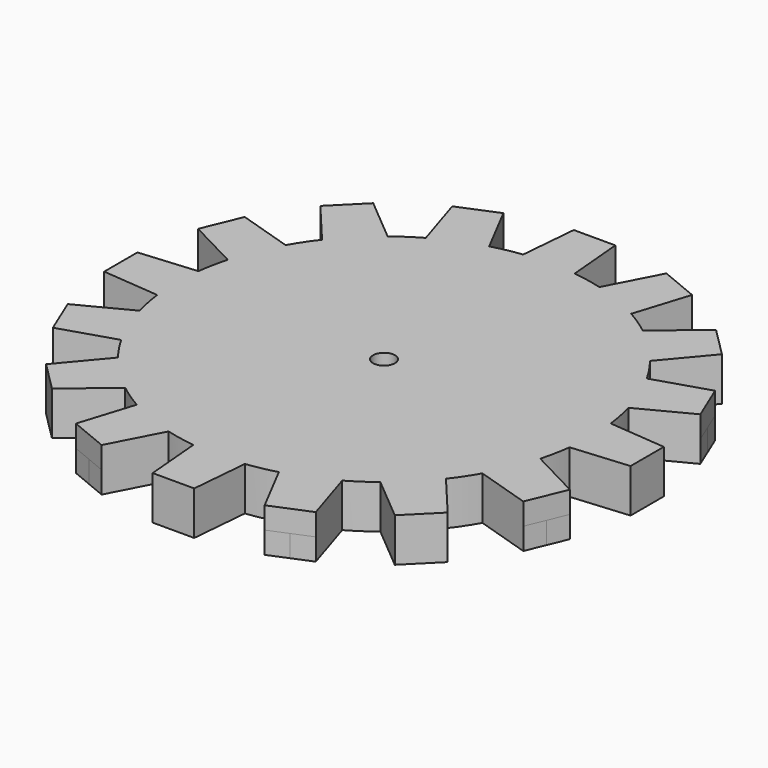
from build123d import *

# Parameters (mm, degrees)
F1_DEPTH  = 20
F2_R      = 10
F3_DEPTH  = 20.001
F1_FACE_R = 10
F4_DEPTH  = 20


with BuildPart() as f1:
    # F0 (on Top) → F1 (new body)
    with BuildSketch(Plane.XY):
        with BuildLine():
            ThreePointArc((189.029629, -23.623065), (190.132052, -11.83439), (190.5, 0))
            ThreePointArc((190.5, 0), (190.132052, 11.83439), (189.029629, 23.623065))
            ThreePointArc((189.029629, 23.623065), (186.839596, 37.164706), (183.680761, 50.513641))
            ThreePointArc((183.680761, 50.513641), (175.999051, 72.901194), (165.60045, 94.163374))
            ThreePointArc((165.60045, 94.163374), (158.394961, 105.836129), (150.368162, 116.960103))
            ThreePointArc((150.368162, 116.960103), (134.703842, 134.703842), (116.960103, 150.368162))
            ThreePointArc((116.960103, 150.368162), (105.836129, 158.394961), (94.163374, 165.60045))
            ThreePointArc((94.163374, 165.60045), (72.901194, 175.999051), (50.513641, 183.680761))
            ThreePointArc((50.513641, 183.680761), (37.164706, 186.839596), (23.623065, 189.029629))
            ThreePointArc((23.623065, 189.029629), (0, 190.5), (-23.623065, 189.029629))
            ThreePointArc((-23.623065, 189.029629), (-37.164706, 186.839596), (-50.513641, 183.680761))
            ThreePointArc((-50.513641, 183.680761), (-72.901194, 175.999051), (-94.163374, 165.60045))
            ThreePointArc((-94.163374, 165.60045), (-105.836129, 158.394961), (-116.960103, 150.368162))
            ThreePointArc((-116.960103, 150.368162), (-134.703842, 134.703842), (-150.368162, 116.960103))
            ThreePointArc((-150.368162, 116.960103), (-158.394961, 105.836129), (-165.60045, 94.163374))
            ThreePointArc((-165.60045, 94.163374), (-175.999051, 72.901194), (-183.680761, 50.513641))
            ThreePointArc((-183.680761, 50.513641), (-186.839596, 37.164706), (-189.029629, 23.623065))
            ThreePointArc((-189.029629, 23.623065), (-190.5, 0), (-189.029629, -23.623065))
            ThreePointArc((-189.029629, -23.623065), (-186.839596, -37.164706), (-183.680761, -50.513641))
            ThreePointArc((-183.680761, -50.513641), (-175.999051, -72.901194), (-165.60045, -94.163374))
            ThreePointArc((-165.60045, -94.163374), (-158.394961, -105.836129), (-150.368162, -116.960103))
            ThreePointArc((-150.368162, -116.960103), (-134.703842, -134.703842), (-116.960103, -150.368162))
            ThreePointArc((-116.960103, -150.368162), (-105.836129, -158.394961), (-94.163374, -165.60045))
            ThreePointArc((-94.163374, -165.60045), (-72.901194, -175.999051), (-50.513641, -183.680761))
            ThreePointArc((-50.513641, -183.680761), (-37.164706, -186.839596), (-23.623065, -189.029629))
            ThreePointArc((-23.623065, -189.029629), (0, -190.5), (23.623065, -189.029629))
            ThreePointArc((23.623065, -189.029629), (37.164706, -186.839596), (50.513641, -183.680761))
            ThreePointArc((50.513641, -183.680761), (72.901194, -175.999051), (94.163374, -165.60045))
            ThreePointArc((94.163374, -165.60045), (105.836129, -158.394961), (116.960103, -150.368162))
            ThreePointArc((116.960103, -150.368162), (134.703842, -134.703842), (150.368162, -116.960103))
            ThreePointArc((150.368162, -116.960103), (158.394961, -105.836129), (165.60045, -94.163374))
            ThreePointArc((165.60045, -94.163374), (175.999051, -72.901194), (183.680761, -50.513641))
            ThreePointArc((183.680761, -50.513641), (186.839596, -37.164706), (189.029629, -23.623065))
        make_face()
        with BuildLine():
            ThreePointArc((189.029629, -23.623065), (190.132052, -11.83439), (190.5, 0))
            ThreePointArc((190.5, 0), (190.132052, 11.83439), (189.029629, 23.623065))
            ThreePointArc((189.029629, 23.623065), (186.839596, 37.164706), (183.680761, 50.513641))
            ThreePointArc((183.680761, 50.513641), (175.999051, 72.901194), (165.60045, 94.163374))
            ThreePointArc((165.60045, 94.163374), (158.394961, 105.836129), (150.368162, 116.960103))
            ThreePointArc((150.368162, 116.960103), (134.703842, 134.703842), (116.960103, 150.368162))
            ThreePointArc((116.960103, 150.368162), (105.836129, 158.394961), (94.163374, 165.60045))
            ThreePointArc((94.163374, 165.60045), (72.901194, 175.999051), (50.513641, 183.680761))
            ThreePointArc((50.513641, 183.680761), (37.164706, 186.839596), (23.623065, 189.029629))
            ThreePointArc((23.623065, 189.029629), (0, 190.5), (-23.623065, 189.029629))
            ThreePointArc((-23.623065, 189.029629), (-37.164706, 186.839596), (-50.513641, 183.680761))
            ThreePointArc((-50.513641, 183.680761), (-72.901194, 175.999051), (-94.163374, 165.60045))
            ThreePointArc((-94.163374, 165.60045), (-105.836129, 158.394961), (-116.960103, 150.368162))
            ThreePointArc((-116.960103, 150.368162), (-134.703842, 134.703842), (-150.368162, 116.960103))
            ThreePointArc((-150.368162, 116.960103), (-158.394961, 105.836129), (-165.60045, 94.163374))
            ThreePointArc((-165.60045, 94.163374), (-175.999051, 72.901194), (-183.680761, 50.513641))
            ThreePointArc((-183.680761, 50.513641), (-186.839596, 37.164706), (-189.029629, 23.623065))
            ThreePointArc((-189.029629, 23.623065), (-190.5, 0), (-189.029629, -23.623065))
            ThreePointArc((-189.029629, -23.623065), (-186.839596, -37.164706), (-183.680761, -50.513641))
            ThreePointArc((-183.680761, -50.513641), (-175.999051, -72.901194), (-165.60045, -94.163374))
            ThreePointArc((-165.60045, -94.163374), (-158.394961, -105.836129), (-150.368162, -116.960103))
            ThreePointArc((-150.368162, -116.960103), (-134.703842, -134.703842), (-116.960103, -150.368162))
            ThreePointArc((-116.960103, -150.368162), (-105.836129, -158.394961), (-94.163374, -165.60045))
            ThreePointArc((-94.163374, -165.60045), (-72.901194, -175.999051), (-50.513641, -183.680761))
            ThreePointArc((-50.513641, -183.680761), (-37.164706, -186.839596), (-23.623065, -189.029629))
            ThreePointArc((-23.623065, -189.029629), (0, -190.5), (23.623065, -189.029629))
            ThreePointArc((23.623065, -189.029629), (37.164706, -186.839596), (50.513641, -183.680761))
            ThreePointArc((50.513641, -183.680761), (72.901194, -175.999051), (94.163374, -165.60045))
            ThreePointArc((94.163374, -165.60045), (105.836129, -158.394961), (116.960103, -150.368162))
            ThreePointArc((116.960103, -150.368162), (134.703842, -134.703842), (150.368162, -116.960103))
            ThreePointArc((150.368162, -116.960103), (158.394961, -105.836129), (165.60045, -94.163374))
            ThreePointArc((165.60045, -94.163374), (175.999051, -72.901194), (183.680761, -50.513641))
            ThreePointArc((183.680761, -50.513641), (186.839596, -37.164706), (189.029629, -23.623065))
        make_face()
        with BuildLine():
            ThreePointArc((189.029629, 23.623065), (190.132052, 11.83439), (190.5, 0))
            ThreePointArc((190.5, 0), (190.132052, -11.83439), (189.029629, -23.623065))
            Line((189.029629, -23.623065), (241.3, -19.05))
            Line((241.3, -19.05), (241.3, 0))
            Line((241.3, 0), (241.3, 19.05))
            Line((241.3, 19.05), (189.029629, 23.623065))
        make_face()
        with BuildLine():
            ThreePointArc((165.60045, 94.163374), (175.999051, 72.901194), (183.680761, 50.513641))
            Line((183.680761, 50.513641), (230.222251, 74.741607))
            Line((230.222251, 74.741607), (222.932131, 92.341512))
            Line((222.932131, 92.341512), (215.642012, 109.941417))
            Line((215.642012, 109.941417), (165.60045, 94.163374))
        make_face()
        with BuildLine():
            Line((230.222251, -74.741607), (183.680761, -50.513641))
            ThreePointArc((183.680761, -50.513641), (175.999051, -72.901194), (165.60045, -94.163374))
            Line((165.60045, -94.163374), (215.642012, -109.941417))
            Line((215.642012, -109.941417), (222.932131, -92.341512))
            Line((222.932131, -92.341512), (230.222251, -74.741607))
        make_face()
        with BuildLine():
            ThreePointArc((116.960103, 150.368162), (134.703842, 134.703842), (150.368162, 116.960103))
            Line((150.368162, 116.960103), (184.09525, 157.154482))
            Line((184.09525, 157.154482), (170.624866, 170.624866))
            Line((170.624866, 170.624866), (157.154482, 184.09525))
            Line((157.154482, 184.09525), (116.960103, 150.368162))
        make_face()
        with BuildLine():
            Line((184.09525, -157.154482), (150.368162, -116.960103))
            ThreePointArc((150.368162, -116.960103), (134.703842, -134.703842), (116.960103, -150.368162))
            Line((116.960103, -150.368162), (157.154482, -184.09525))
            Line((157.154482, -184.09525), (170.624866, -170.624866))
            Line((170.624866, -170.624866), (184.09525, -157.154482))
        make_face()
        with BuildLine():
            ThreePointArc((50.513641, 183.680761), (72.901194, 175.999051), (94.163374, 165.60045))
            Line((94.163374, 165.60045), (109.941417, 215.642012))
            Line((109.941417, 215.642012), (92.341512, 222.932131))
            Line((92.341512, 222.932131), (74.741607, 230.222251))
            Line((74.741607, 230.222251), (50.513641, 183.680761))
        make_face()
        with BuildLine():
            Line((109.941417, -215.642012), (94.163374, -165.60045))
            ThreePointArc((94.163374, -165.60045), (72.901194, -175.999051), (50.513641, -183.680761))
            Line((50.513641, -183.680761), (74.741607, -230.222251))
            Line((74.741607, -230.222251), (92.341512, -222.932131))
            Line((92.341512, -222.932131), (109.941417, -215.642012))
        make_face()
        with BuildLine():
            ThreePointArc((-23.623065, 189.029629), (0, 190.5), (23.623065, 189.029629))
            Line((23.623065, 189.029629), (19.05, 241.3))
            Line((19.05, 241.3), (0, 241.3))
            Line((0, 241.3), (-19.05, 241.3))
            Line((-19.05, 241.3), (-23.623065, 189.029629))
        make_face()
        with BuildLine():
            Line((19.05, -241.3), (23.623065, -189.029629))
            ThreePointArc((23.623065, -189.029629), (0, -190.5), (-23.623065, -189.029629))
            Line((-23.623065, -189.029629), (-19.05, -241.3))
            Line((-19.05, -241.3), (0, -241.3))
            Line((0, -241.3), (19.05, -241.3))
        make_face()
        with BuildLine():
            ThreePointArc((-94.163374, 165.60045), (-72.901194, 175.999051), (-50.513641, 183.680761))
            Line((-50.513641, 183.680761), (-74.741607, 230.222251))
            Line((-74.741607, 230.222251), (-92.341512, 222.932131))
            Line((-92.341512, 222.932131), (-109.941417, 215.642012))
            Line((-109.941417, 215.642012), (-94.163374, 165.60045))
        make_face()
        with BuildLine():
            Line((-74.741607, -230.222251), (-50.513641, -183.680761))
            ThreePointArc((-50.513641, -183.680761), (-72.901194, -175.999051), (-94.163374, -165.60045))
            Line((-94.163374, -165.60045), (-109.941417, -215.642012))
            Line((-109.941417, -215.642012), (-92.341512, -222.932131))
            Line((-92.341512, -222.932131), (-74.741607, -230.222251))
        make_face()
        with BuildLine():
            ThreePointArc((-150.368162, 116.960103), (-134.703842, 134.703842), (-116.960103, 150.368162))
            Line((-116.960103, 150.368162), (-157.154482, 184.09525))
            Line((-157.154482, 184.09525), (-170.624866, 170.624866))
            Line((-170.624866, 170.624866), (-184.09525, 157.154482))
            Line((-184.09525, 157.154482), (-150.368162, 116.960103))
        make_face()
        with BuildLine():
            Line((-157.154482, -184.09525), (-116.960103, -150.368162))
            ThreePointArc((-116.960103, -150.368162), (-134.703842, -134.703842), (-150.368162, -116.960103))
            Line((-150.368162, -116.960103), (-184.09525, -157.154482))
            Line((-184.09525, -157.154482), (-170.624866, -170.624866))
            Line((-170.624866, -170.624866), (-157.154482, -184.09525))
        make_face()
        with BuildLine():
            ThreePointArc((-183.680761, 50.513641), (-175.999051, 72.901194), (-165.60045, 94.163374))
            Line((-165.60045, 94.163374), (-215.642012, 109.941417))
            Line((-215.642012, 109.941417), (-222.932131, 92.341512))
            Line((-222.932131, 92.341512), (-230.222251, 74.741607))
            Line((-230.222251, 74.741607), (-183.680761, 50.513641))
        make_face()
        with BuildLine():
            Line((-215.642012, -109.941417), (-165.60045, -94.163374))
            ThreePointArc((-165.60045, -94.163374), (-175.999051, -72.901194), (-183.680761, -50.513641))
            Line((-183.680761, -50.513641), (-230.222251, -74.741607))
            Line((-230.222251, -74.741607), (-222.932131, -92.341512))
            Line((-222.932131, -92.341512), (-215.642012, -109.941417))
        make_face()
        with BuildLine():
            ThreePointArc((-189.029629, -23.623065), (-190.5, 0), (-189.029629, 23.623065))
            Line((-189.029629, 23.623065), (-241.3, 19.05))
            Line((-241.3, 19.05), (-241.3, 0))
            Line((-241.3, 0), (-241.3, -19.05))
            Line((-241.3, -19.05), (-189.029629, -23.623065))
        make_face()
    extrude(amount=F1_DEPTH)

    # F2 (on face) → F3 (cut, through all)
    with BuildSketch(Plane.XY.offset(20)):
        Circle(F2_R)
    extrude(amount=-F3_DEPTH, mode=Mode.SUBTRACT)

    # F1_face (on face) → F4 (join)
    with BuildSketch(Plane.XY.offset(20)):
        with BuildLine():
            ThreePointArc((183.680761, -50.513641), (186.839596, -37.164706), (189.029629, -23.623065))
            Line((189.029629, -23.623065), (241.3, -19.05))
            Line((241.3, -19.05), (241.3, 19.05))
            Line((241.3, 19.05), (189.029629, 23.623065))
            ThreePointArc((189.029629, 23.623065), (186.839596, 37.164706), (183.680761, 50.513641))
            Line((183.680761, 50.513641), (230.222251, 74.741607))
            Line((230.222251, 74.741607), (215.642012, 109.941417))
            Line((215.642012, 109.941417), (165.60045, 94.163374))
            ThreePointArc((165.60045, 94.163374), (158.394961, 105.836129), (150.368162, 116.960103))
            Line((150.368162, 116.960103), (184.09525, 157.154482))
            Line((184.09525, 157.154482), (157.154482, 184.09525))
            Line((157.154482, 184.09525), (116.960103, 150.368162))
            ThreePointArc((116.960103, 150.368162), (105.836129, 158.394961), (94.163374, 165.60045))
            Line((94.163374, 165.60045), (109.941417, 215.642012))
            Line((109.941417, 215.642012), (74.741607, 230.222251))
            Line((74.741607, 230.222251), (50.513641, 183.680761))
            ThreePointArc((50.513641, 183.680761), (37.164706, 186.839596), (23.623065, 189.029629))
            Line((23.623065, 189.029629), (19.05, 241.3))
            Line((19.05, 241.3), (-19.05, 241.3))
            Line((-19.05, 241.3), (-23.623065, 189.029629))
            ThreePointArc((-23.623065, 189.029629), (-37.164706, 186.839596), (-50.513641, 183.680761))
            Line((-50.513641, 183.680761), (-74.741607, 230.222251))
            Line((-74.741607, 230.222251), (-109.941417, 215.642012))
            Line((-109.941417, 215.642012), (-94.163374, 165.60045))
            ThreePointArc((-94.163374, 165.60045), (-105.836129, 158.394961), (-116.960103, 150.368162))
            Line((-116.960103, 150.368162), (-157.154482, 184.09525))
            Line((-157.154482, 184.09525), (-184.09525, 157.154482))
            Line((-184.09525, 157.154482), (-150.368162, 116.960103))
            ThreePointArc((-150.368162, 116.960103), (-158.394961, 105.836129), (-165.60045, 94.163374))
            Line((-165.60045, 94.163374), (-215.642012, 109.941417))
            Line((-215.642012, 109.941417), (-230.222251, 74.741607))
            Line((-230.222251, 74.741607), (-183.680761, 50.513641))
            ThreePointArc((-183.680761, 50.513641), (-186.839596, 37.164706), (-189.029629, 23.623065))
            Line((-189.029629, 23.623065), (-241.3, 19.05))
            Line((-241.3, 19.05), (-241.3, -19.05))
            Line((-241.3, -19.05), (-189.029629, -23.623065))
            ThreePointArc((-189.029629, -23.623065), (-186.839596, -37.164706), (-183.680761, -50.513641))
            Line((-183.680761, -50.513641), (-230.222251, -74.741607))
            Line((-230.222251, -74.741607), (-215.642012, -109.941417))
            Line((-215.642012, -109.941417), (-165.60045, -94.163374))
            ThreePointArc((-165.60045, -94.163374), (-158.394961, -105.836129), (-150.368162, -116.960103))
            Line((-150.368162, -116.960103), (-184.09525, -157.154482))
            Line((-184.09525, -157.154482), (-157.154482, -184.09525))
            Line((-157.154482, -184.09525), (-116.960103, -150.368162))
            ThreePointArc((-116.960103, -150.368162), (-105.836129, -158.394961), (-94.163374, -165.60045))
            Line((-94.163374, -165.60045), (-109.941417, -215.642012))
            Line((-109.941417, -215.642012), (-74.741607, -230.222251))
            Line((-74.741607, -230.222251), (-50.513641, -183.680761))
            ThreePointArc((-50.513641, -183.680761), (-37.164706, -186.839596), (-23.623065, -189.029629))
            Line((-23.623065, -189.029629), (-19.05, -241.3))
            Line((-19.05, -241.3), (19.05, -241.3))
            Line((19.05, -241.3), (23.623065, -189.029629))
            ThreePointArc((23.623065, -189.029629), (37.164706, -186.839596), (50.513641, -183.680761))
            Line((50.513641, -183.680761), (74.741607, -230.222251))
            Line((74.741607, -230.222251), (109.941417, -215.642012))
            Line((109.941417, -215.642012), (94.163374, -165.60045))
            ThreePointArc((94.163374, -165.60045), (105.836129, -158.394961), (116.960103, -150.368162))
            Line((116.960103, -150.368162), (157.154482, -184.09525))
            Line((157.154482, -184.09525), (184.09525, -157.154482))
            Line((184.09525, -157.154482), (150.368162, -116.960103))
            ThreePointArc((150.368162, -116.960103), (158.394961, -105.836129), (165.60045, -94.163374))
            Line((165.60045, -94.163374), (215.642012, -109.941417))
            Line((215.642012, -109.941417), (230.222251, -74.741607))
            Line((230.222251, -74.741607), (183.680761, -50.513641))
        make_face()
        Circle(F1_FACE_R, mode=Mode.SUBTRACT)
    extrude(amount=F4_DEPTH)


solid = f1.part
